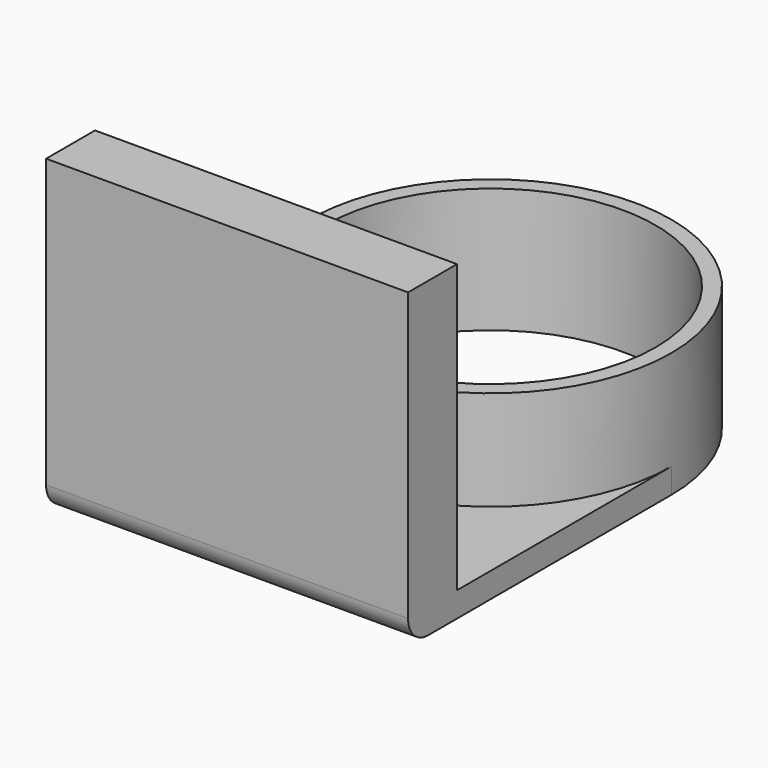
from build123d import *

# Parameters (mm, degrees)
F0_R     = 13.25
F1_DEPTH = 10
F0_R_2   = 1
F0_W     = 29
F0_H     = 4.9
F2_DEPTH = 2
F3_DEPTH = 25
F4_R     = 2


with BuildPart() as f1:
    # F0 (on Top) → F1 (new body)
    with BuildSketch(Plane.XY):
        with BuildLine():
            ThreePointArc((-14.5, 0), (0, -14.5), (14.5, 0))
            ThreePointArc((14.5, 0), (0, 14.5), (-14.5, 0))
        make_face()
        Circle(F0_R, mode=Mode.SUBTRACT)
    extrude(amount=F1_DEPTH)

    # F0 (on Top) → F2 (join)
    with BuildSketch(Plane.XY):
        with BuildLine():
            Line((14.5, -21.457395), (14.5, 0))
            ThreePointArc((14.5, 0), (0, -14.5), (-14.5, 0))
            Line((-14.5, 0), (-14.5, -21.457395))
            Line((-14.5, -21.457395), (14.5, -21.457395))
        make_face()
        with Locations((0, -18.957395)):
            Circle(F0_R_2, mode=Mode.SUBTRACT)
        with Locations((0, -23.907395)):
            Rectangle(F0_W, F0_H)
    extrude(amount=F2_DEPTH)

    # F0 (on Top) → F3 (join)
    with BuildSketch(Plane.XY):
        with Locations((0, -23.907395)):
            Rectangle(F0_W, F0_H)
    extrude(amount=F3_DEPTH)

    # F4
    f4_edges = [f1.edges().sort_by_distance(p)[0] for p in [
        (0, -26.357395, 0),
    ]]
    fillet(f4_edges, radius=F4_R)


solid = f1.part
